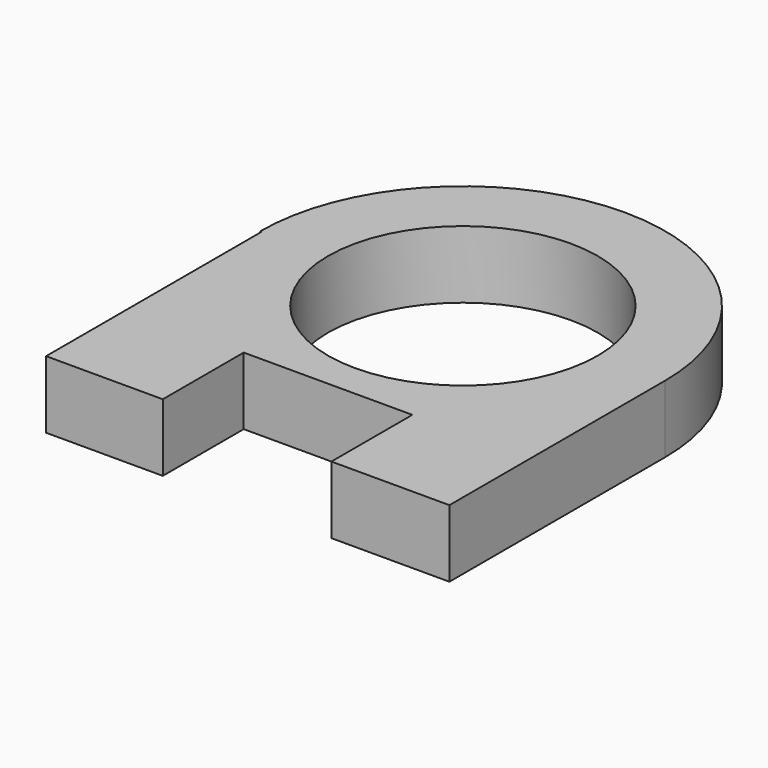
from build123d import *

# Parameters (mm, degrees)
F1_DEPTH = 25.4
F2_R     = 50.8
F3_DEPTH = 25.4
F4_W     = 63.5
F4_H     = 38.1
F5_DEPTH = 25.4


with BuildPart() as f1:
    # F0 (on Top) → F1 (new body)
    with BuildSketch(Plane.XY):
        with BuildLine():
            Line((-75.701751, 0), (76.2, 0))
            ThreePointArc((76.2, 0), (0, 76.2), (-76.2, 0))
            Line((-76.2, 0), (-75.701751, 0))
        make_face()
        with BuildLine():
            ThreePointArc((-75.701751, -8.699708), (4.356982, -76.075336), (76.2, 0))
            Line((76.2, 0), (-75.701751, 0))
            Line((-75.701751, 0), (-75.701751, -8.699708))
        make_face()
        with BuildLine():
            Line((76.2, -101.6), (76.2, 0))
            ThreePointArc((76.2, 0), (4.356982, -76.075336), (-75.701751, -8.699708))
            Line((-75.701751, -8.699708), (-75.701751, -101.6))
            Line((-75.701751, -101.6), (76.2, -101.6))
        make_face()
    extrude(amount=F1_DEPTH)

    # F2 (on face) → F3 (cut)
    with BuildSketch(Plane.XY.offset(25.4)):
        Circle(F2_R)
    extrude(amount=-F3_DEPTH, mode=Mode.SUBTRACT)

    # F4 (on face) → F5 (cut)
    with BuildSketch(Plane.XY.offset(25.4)):
        with Locations((0, -82.55)):
            Rectangle(F4_W, F4_H)
    extrude(amount=-F5_DEPTH, mode=Mode.SUBTRACT)


solid = f1.part
